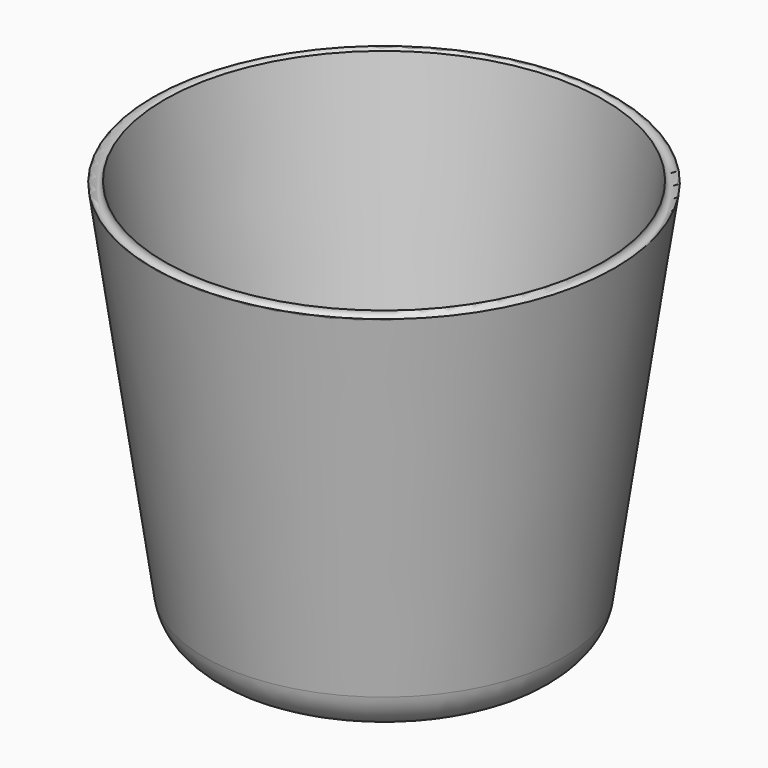
from build123d import *


with BuildPart() as f1:
    # F0 (on Front) → F1 (revolve)
    with BuildSketch(Plane.XZ):
        with BuildLine():
            Line((0, 7), (0, 0))
            Line((0, 0), (23.061637, 0))
            ThreePointArc((23.061637, 0), (28.303251, 1.956368), (30.981233, 6.868629))
            Line((30.981233, 6.868629), (39.83694, 68.858579))
            ThreePointArc((39.83694, 68.858579), (38.705569, 68.010051), (37.857041, 69.141421))
            Line((37.857041, 69.141421), (29.592965, 11.292893))
            ThreePointArc((29.592965, 11.292893), (27.919227, 8.22273), (24.643218, 7))
            Line((24.643218, 7), (0, 7))
        make_face()
    revolve(axis=Axis((0, 0, 3.5), (0, 0, -1)))


solid = f1.part
